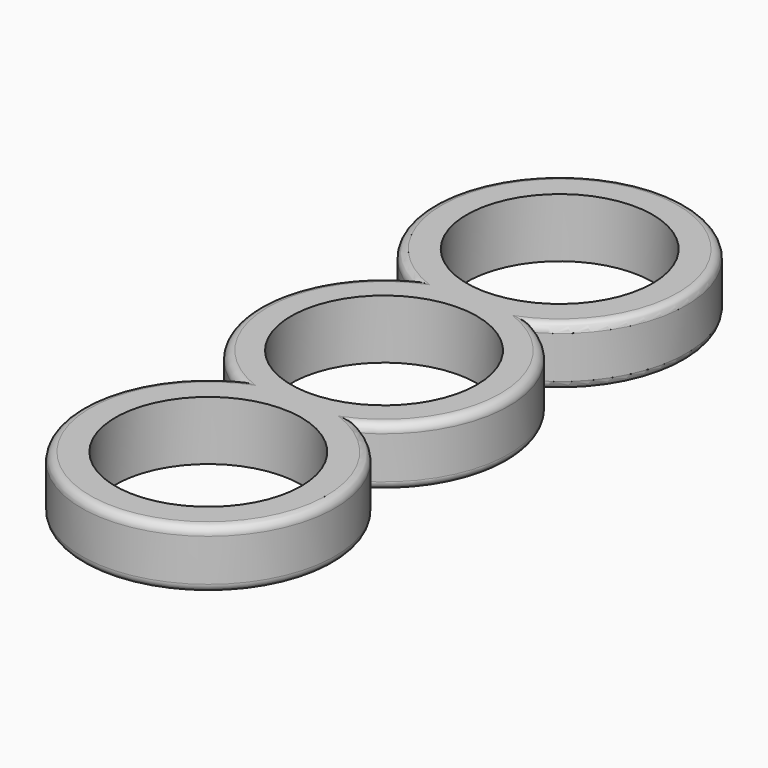
from build123d import *

# Parameters (mm, degrees)
F0_R     = 11
F1_DEPTH = 7
F2_R     = 1


with BuildPart() as f1:
    # F0 (on Top) → F1 (new body)
    with BuildSketch(Plane.XY):
        with BuildLine():
            ThreePointArc((7.274769, -12.882159), (14.794333, 0), (7.274769, 12.882159))
            ThreePointArc((7.274769, 12.882159), (0, 41), (-7.274769, 12.882159))
            ThreePointArc((-7.274769, 12.882159), (-14.794333, 0), (-7.274769, -12.882159))
            ThreePointArc((-7.274769, -12.882159), (0, -41), (7.274769, -12.882159))
        make_face()
        with Locations((0, -26)):
            Circle(F0_R, mode=Mode.SUBTRACT)
        Circle(F0_R, mode=Mode.SUBTRACT)
        with Locations((0, 26)):
            Circle(F0_R, mode=Mode.SUBTRACT)
    extrude(amount=F1_DEPTH)

    # F2
    f2_edges = [f1.edges().sort_by_distance(p)[0] for p in [
        (0, -41, 7),
        (14.794333, 0, 7),
        (0, 41, 7),
        (-14.794333, 0, 7),
        (0, 41, 0),
        (14.794333, 0, 0),
        (0, -41, 0),
        (-14.794333, 0, 0),
    ]]
    fillet(f2_edges, radius=F2_R)


solid = f1.part
